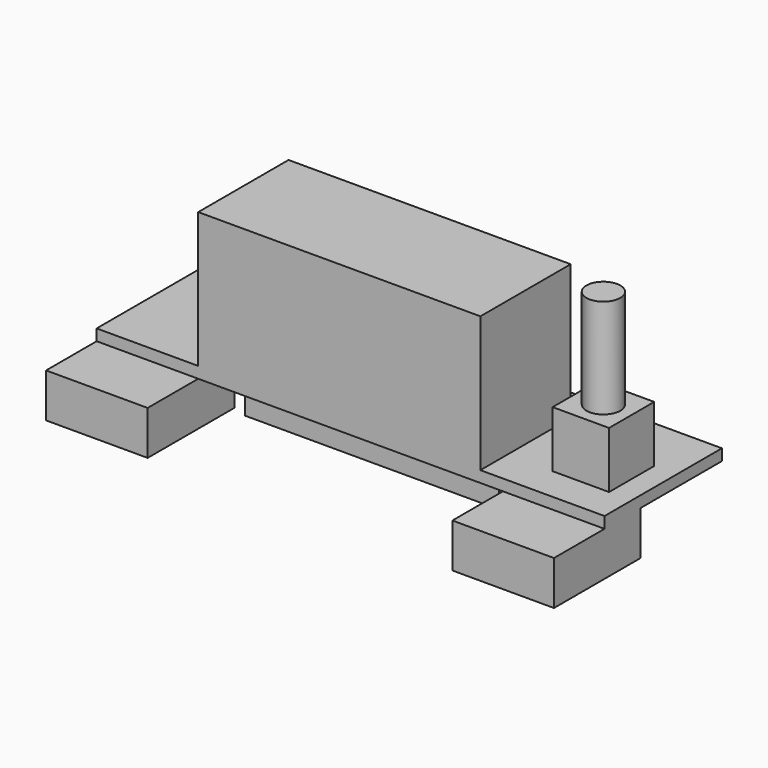
from build123d import *

# Parameters (mm, degrees)
F0_W      = 45
F0_H      = 13
F1_DEPTH  = 1
F2_W      = 22.5
F2_H      = 7.8
F3_DEPTH  = 5
F4_W      = 9
F4_H      = 9.6
F5_DEPTH  = 3.9
F6_W      = 25
F6_H      = 10
F7_DEPTH  = 12
F6_W_2    = 5
F6_H_2    = 5
F8_DEPTH  = 5
F9_R      = 1.5
F10_DEPTH = 8.8


with BuildPart() as f1:
    # F0 (on Top) → F1 (new body)
    with BuildSketch(Plane.XY):
        with Locations((-22.5, 6.5)):
            Rectangle(F0_W, F0_H)
    extrude(amount=F1_DEPTH)

    # F2 (on face) → F3 (join)
    with BuildSketch(Plane(origin=(0, 0, 0), x_dir=(1, 0, 0), z_dir=(0, 0, -1))):
        with Locations((-24.75, -9.1)):
            Rectangle(F2_W, F2_H)
    extrude(amount=F3_DEPTH)

    # F4 (on face) → F5 (join)
    with BuildSketch(Plane(origin=(0, 0, 0), x_dir=(1, 0, 0), z_dir=(0, 0, -1))):
        with Locations((-4.5, 0.8)):
            Rectangle(F4_W, F4_H)
        with Locations((-4.5, 0.8)):
            Rectangle(F4_W, F4_H)
        with Locations((-40.5, 0.8)):
            Rectangle(F4_W, F4_H)
        with Locations((-40.5, 0.8)):
            Rectangle(F4_W, F4_H)
    extrude(amount=F5_DEPTH)

    # F6 (on face) → F7 (join)
    with BuildSketch(Plane.XY.offset(1)):
        with Locations((-23.5, 5)):
            Rectangle(F6_W, F6_H)
    extrude(amount=F7_DEPTH)

    # F6 (on face) → F8 (join)
    with BuildSketch(Plane.XY.offset(1)):
        with Locations((-4.5, 5.5)):
            Rectangle(F6_W_2, F6_H_2)
    extrude(amount=F8_DEPTH)

    # F9 (on face) → F10 (join)
    with BuildSketch(Plane.XY.offset(6)):
        with Locations((-4.5, 5.5)):
            Circle(F9_R)
    extrude(amount=F10_DEPTH)


solid = f1.part
